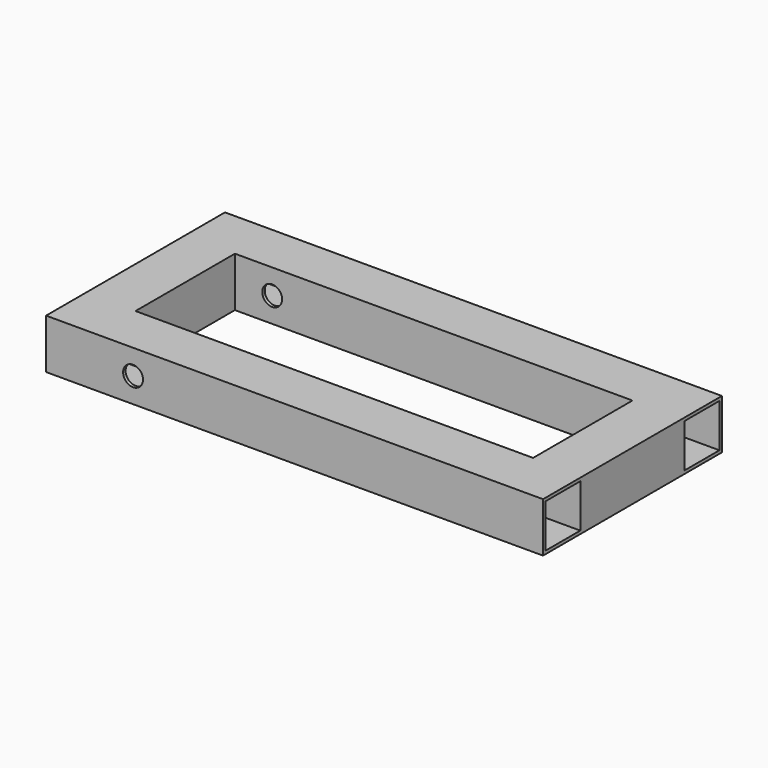
from build123d import *

# Parameters (mm, degrees)
F0_W     = 20
F0_H     = 20
F0_W_2   = 17.5
F0_H_2   = 17.5
F1_DEPTH = 200
F2_W     = 20
F2_H     = 20
F2_W_2   = 17.5
F2_H_2   = 17.5
F3_DEPTH = 50
F4_R     = 4
F5_DEPTH = 20.001


with BuildPart() as f1:
    # F0 (on Right) → F1 (new body)
    with BuildSketch(Plane.YZ):
        with Locations((10, 10)):
            Rectangle(F0_W, F0_H)
        with Locations((10, 10)):
            Rectangle(F0_W_2, F0_H_2, mode=Mode.SUBTRACT)
    extrude(amount=F1_DEPTH)

    # F2 (on face) → F3 (join)
    with BuildSketch(Plane.XZ):
        with Locations((10, 10)):
            Rectangle(F2_W, F2_H)
        with Locations((10, 10)):
            Rectangle(F2_W_2, F2_H_2, mode=Mode.SUBTRACT)
        with Locations((190, 10)):
            Rectangle(F2_W, F2_H)
        with Locations((190, 10)):
            Rectangle(F2_W_2, F2_H_2, mode=Mode.SUBTRACT)
    extrude(amount=F3_DEPTH)

    # F4 (on face) → F5 (cut, through all)
    with BuildSketch(Plane.XZ):
        with Locations((35, 10)):
            Circle(F4_R)
    extrude(amount=-F5_DEPTH, mode=Mode.SUBTRACT)

    # F8: F1 across plane


with BuildPart() as f1_1:
    add(f1.part)
    add(f1.part.mirror(Plane.XZ.offset(25)))


solid = f1_1.part
